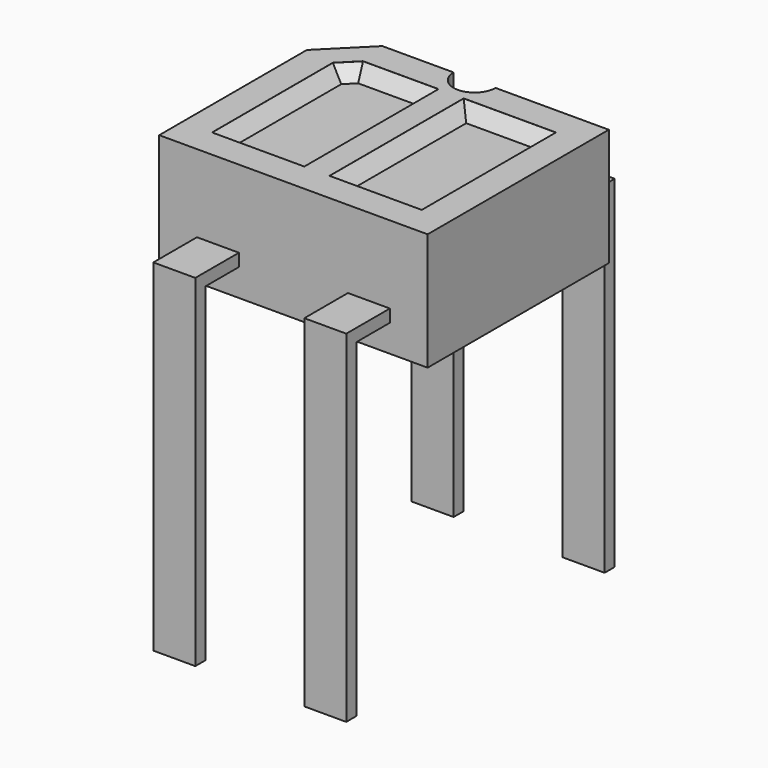
from build123d import *

# Parameters (mm, degrees)
PAD_DEPTH       = 1
PAD_DEPTH_BACK  = 0.4
SKETCH001_W     = 1.1
SKETCH001_H     = 2
POCKET_DEPTH    = 0.151
CHAMFER_SIZE    = 0.15
SKETCH004_R     = 0.25
POCKET001_DEPTH = 1.401
SKETCH002_W     = 0.5
SKETCH002_H     = 4
PAD001_DEPTH    = 0.075
SKETCH003_W     = 0.5
SKETCH003_H     = 0.15
PAD002_DEPTH    = 4


with BuildPart() as pocket001:
    # Sketch → Pad (new body, two sides)
    with BuildSketch(Plane(origin=(0.9, -2, 1), x_dir=(1, 0, 0), z_dir=(0, 0, 1))) as pad_sk:
        Polygon((-1.1, 1.35), (1.6, 1.35), (1.6, -1.35), (-1.6, -1.35), (-1.6, 0.85), align=None)
    extrude(amount=PAD_DEPTH)
    extrude(pad_sk.sketch, amount=-PAD_DEPTH_BACK)

    # Sketch001 → Pocket (cut)
    with BuildSketch(Plane(origin=(0.9, -2, 2), x_dir=(1, 0, 0), z_dir=(0, 0, 1))):
        Polygon((-1.25, -1), (-0.15, -1), (-0.15, 1), (-1.05, 1), (-1.25, 0.8), align=None)
        with Locations((0.7, 0)):
            Rectangle(SKETCH001_W, SKETCH001_H)
    extrude(amount=-POCKET_DEPTH, mode=Mode.SUBTRACT)

    # Chamfer
    chamfer_edges = [pocket001.edges().sort_by_distance(p)[0] for p in [
        (-0.25, -1.1, 1.849),
        (0.3, -1, 1.849),
        (-0.35, -2.1, 1.849),
        (1.05, -2, 1.849),
        (1.6, -1, 1.849),
        (2.15, -2, 1.849),
        (0.75, -2, 1.849),
        (1.6, -3, 1.849),
        (0.2, -3, 1.849),
    ]]
    chamfer(chamfer_edges, length=CHAMFER_SIZE)

    # Sketch004 → Pocket001 (cut, through all)
    with BuildSketch(Plane(origin=(0.9, -2, 2), x_dir=(1, 0, 0), z_dir=(0, 0, 1))):
        with Locations((0, 1.35)):
            Circle(SKETCH004_R)
    extrude(amount=-POCKET001_DEPTH, mode=Mode.SUBTRACT)


with BuildPart() as pad001:
    # Sketch002 → Pad001 (new body, symmetric)
    with BuildSketch(Plane(origin=(0.9, -2, 1), x_dir=(1, 0, 0), z_dir=(0, 0, 1))):
        with Locations((-0.9, 0)):
            Rectangle(SKETCH002_W, SKETCH002_H)
        with Locations((0.9, 0)):
            Rectangle(SKETCH002_W, SKETCH002_H)
    extrude(amount=PAD001_DEPTH, both=True)


with BuildPart() as obj1:
    # Sketch003 → Pad002 (new body)
    with BuildSketch(Plane(origin=(0.9, -2, 1), x_dir=(1, 0, 0), z_dir=(0, 0, 1))):
        with Locations((-0.9, 1.925)):
            Rectangle(SKETCH003_W, SKETCH003_H)
        with Locations((0.9, 1.925)):
            Rectangle(SKETCH003_W, SKETCH003_H)
        with Locations((-0.9, -1.925)):
            Rectangle(SKETCH003_W, SKETCH003_H)
        with Locations((0.9, -1.925)):
            Rectangle(SKETCH003_W, SKETCH003_H)
    extrude(amount=-PAD002_DEPTH)

    add(pocket001.part)
    add(pad001.part)


solid = obj1.part
